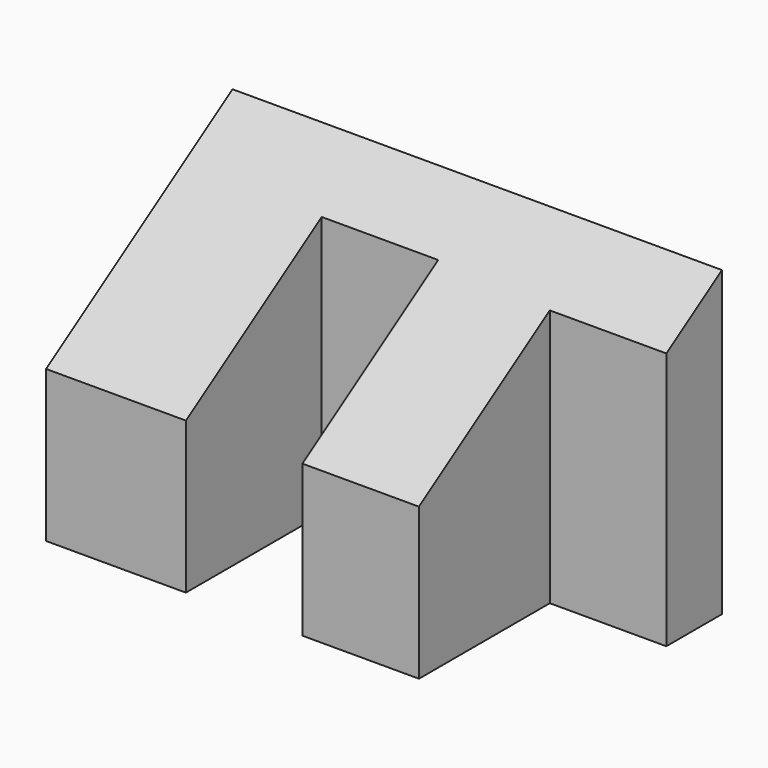
from build123d import *

# Parameters (mm, degrees)
F0_W     = 105
F0_H     = 65
F1_DEPTH = 50
F2_W     = 25
F2_H     = 35.092428
F2_H_2   = 36.408834
F3_DEPTH = 65
F5_DEPTH = 105


with BuildPart() as f1:
    # F0 (on Front) → F1 (new body)
    with BuildSketch(Plane.XZ):
        Rectangle(F0_W, F0_H)
    extrude(amount=-F1_DEPTH)

    # F2 (on face) → F3 (cut)
    with BuildSketch(Plane.XY.offset(32.5)):
        with Locations((40, 17.546214)):
            Rectangle(F2_W, F2_H)
        with Locations((-10, 18.204417)):
            Rectangle(F2_W, F2_H_2)
    extrude(amount=-F3_DEPTH, mode=Mode.SUBTRACT)

    # F4 (on face) → F5 (cut)
    with BuildSketch(Plane(origin=(-52.5, 0, 0), x_dir=(0, -1, 0), z_dir=(-1, 0, 0))):
        Polygon((0, 32.5), (-50, 32.5), (0, 0), align=None)
    extrude(amount=-F5_DEPTH, mode=Mode.SUBTRACT)


solid = f1.part
